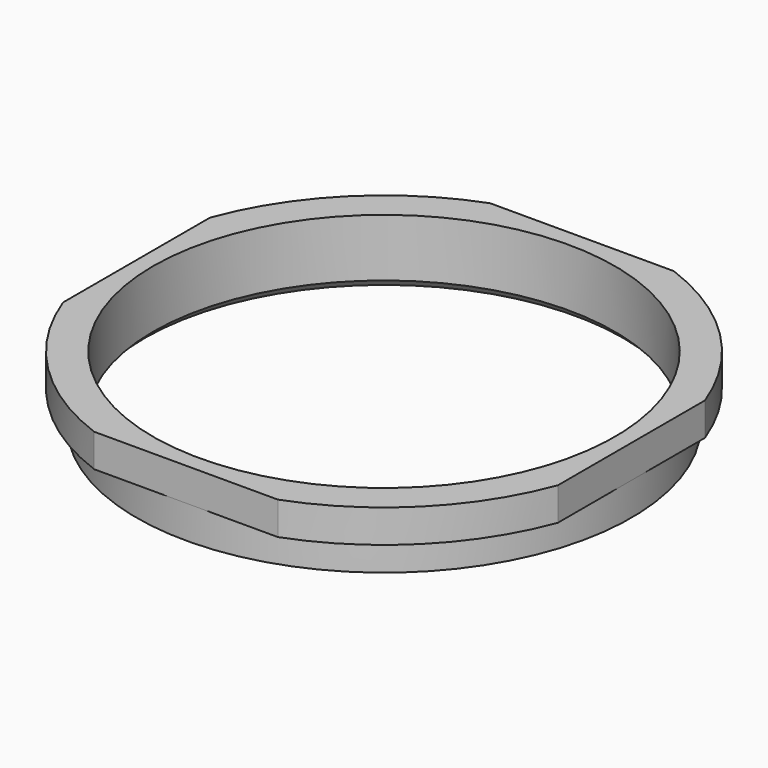
from build123d import *

# Parameters (mm, degrees)
SKETCH001_W   = 50.8
SKETCH001_H   = 50.8
SKETCH001_W_2 = 38.1
SKETCH001_H_2 = 38.1
POCKET_DEPTH  = 5.08
CHAMFER_SIZE  = 0.635


with BuildPart() as part:
    # Sketch → Revolution (revolve)
    with BuildSketch(Plane.XZ):
        Polygon((-17.78, 0), (-20.32, 0), (-20.32, -2.54), (-19.05, -2.54), (-19.05, -5.08), (-17.78, -5.08), align=None)
    revolve(axis=Axis((0, 0, 0), (0, 0, 1)))

    # Sketch001 → Pocket (cut)
    with BuildSketch(Plane.XY):
        Rectangle(SKETCH001_W, SKETCH001_H)
        Rectangle(SKETCH001_W_2, SKETCH001_H_2, mode=Mode.SUBTRACT)
    extrude(amount=-POCKET_DEPTH, mode=Mode.SUBTRACT)

    # Chamfer
    chamfer_edges = [part.edges().sort_by_distance(p)[0] for p in [
        (17.78, 0, -5.08),
    ]]
    chamfer(chamfer_edges, length=CHAMFER_SIZE)


solid = part.part
